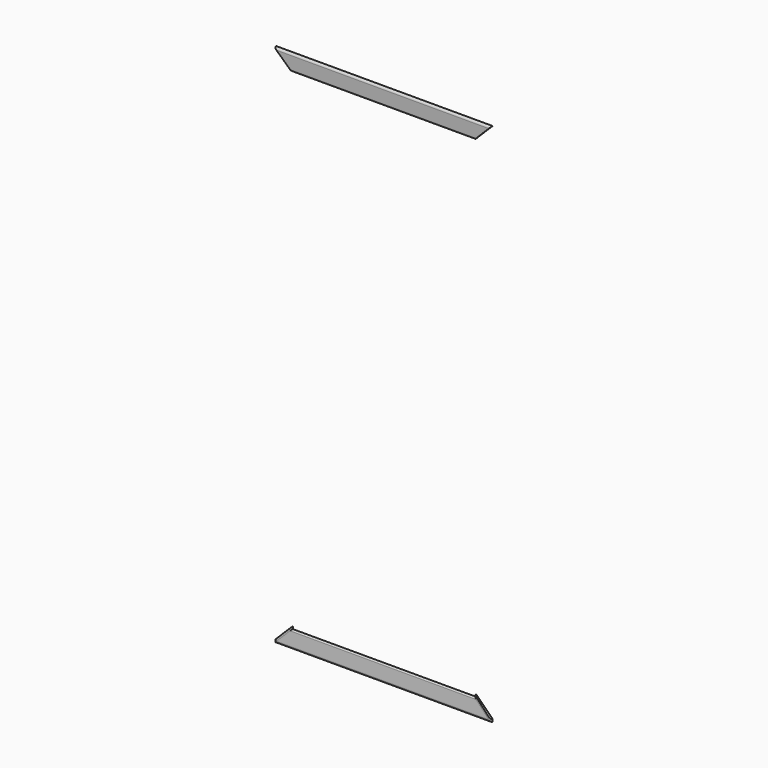
from build123d import *

# Parameters (mm, degrees)
EXTRUDE039436_DEPTH = 500
EXTRUDE039434_DEPTH = 500


with BuildPart() as extrude039436_internal_inferior:
    # Sketch225 (on Sketch) → Extrude039436 (new body, symmetric)
    with BuildSketch(Plane.XZ):
        Polygon((-200, 200), (200, 200), (600, -200), (-600, -200), align=None)
    extrude(amount=EXTRUDE039436_DEPTH, both=True)


with BuildPart() as compound051:
    # Sketch223 (on Sketch) → Extrude039434 (new body, symmetric)
    with BuildSketch(Plane.XZ):
        Polygon((-600, 2300), (600, 2300), (200, 1900), (-200, 1900), align=None)
    extrude(amount=EXTRUDE039434_DEPTH, both=True)

    # Compound051: union Extrude039436_internal_inferior_
    add(extrude039436_internal_inferior.part)


with BuildPart() as trim_window_external_horizontal:
    # Sweep011: sweep along a path in Sketch194
    with BuildLine(Plane.XZ.offset(140)) as sweep011_path:
        Line((-390, 2090), (-390, 0))
        Line((-390, 0), (390, 0))
        Line((390, 0), (390, 2090))
        Line((390, 2090), (-390, 2090))
    # Clone2D027 (on Sketch) → Sweep011 (sweep)
    with BuildSketch(Plane(origin=(0, -140, 0), x_dir=(0, 0, 1), z_dir=(1, 0, 0))):
        with BuildLine():
            Line((-61.571224, 10), (-5.678418, 7))
            ThreePointArc((-5.678418, 7), (-1.645147, 5.136003), (0, 1.008624))
            Line((0, 1.008624), (0, 0))
            Line((0, 0), (-70, 0))
            Line((-70, 0), (-70, 2.011499))
            ThreePointArc((-70, 2.011499), (-67.503171, 7.81797), (-61.571224, 10))
        make_face()
    sweep(path=sweep011_path.line, is_frenet=True, transition=Transition.RIGHT)

    # Common003: intersect Compound051_
    add(compound051.part, mode=Mode.INTERSECT)


solid = trim_window_external_horizontal.part
